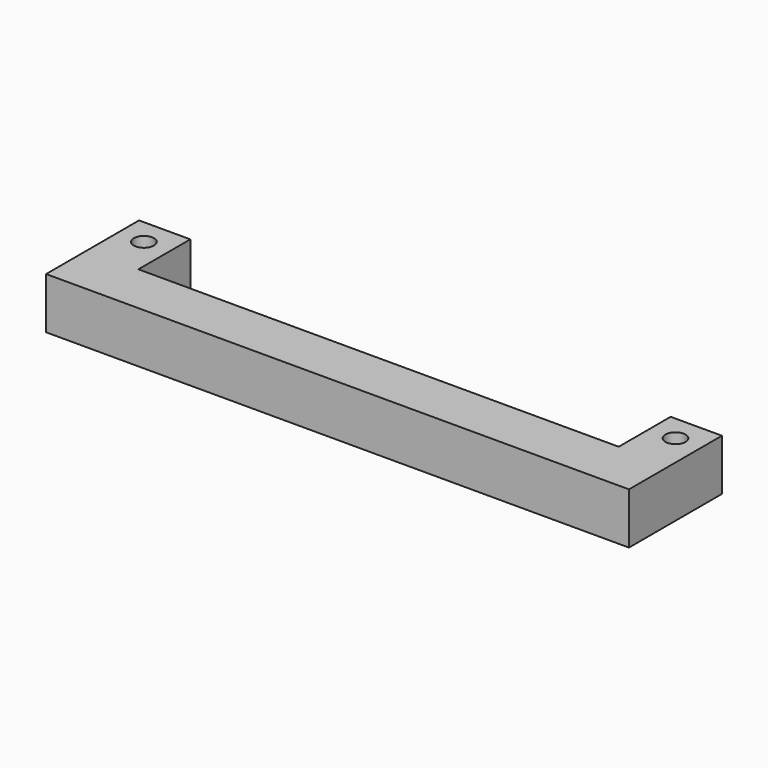
from build123d import *

# Parameters (mm, degrees)
PAD_DEPTH    = 7.9
SKETCH001_R  = 1.55
POCKET_DEPTH = 7.901


with BuildPart() as part:
    # Sketch → Pad (new body)
    with BuildSketch(Plane.XY):
        Polygon((-44.9, 17.9), (-44.9, 0), (44.9, 0), (44.9, 17.9), (37, 17.9), (37, 7.9), (-37, 7.9), (-37, 17.9), align=None)
    extrude(amount=PAD_DEPTH)

    # Sketch001 (on Face10 of Pad) → Pocket (cut, through all)
    with BuildSketch(Plane.XY.offset(7.9)):
        with Locations((40.95, 13.9)):
            Circle(SKETCH001_R)
        with Locations((-40.95, 13.9)):
            Circle(SKETCH001_R)
    extrude(amount=-POCKET_DEPTH, mode=Mode.SUBTRACT)


solid = part.part
